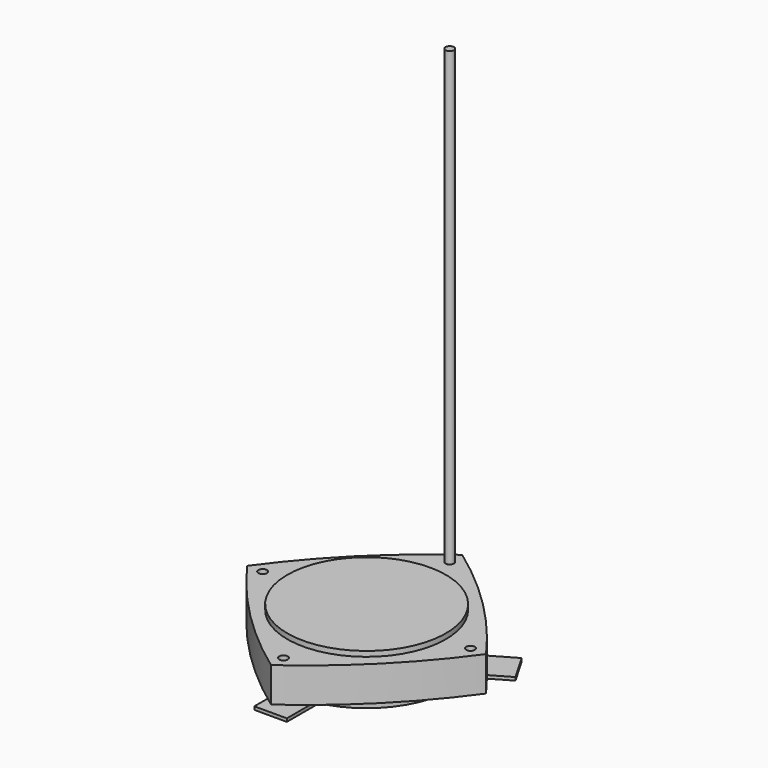
from build123d import *

# Parameters (mm, degrees)
F0_R      = 73.025
F1_DEPTH  = 4.7625
F3_DEPTH  = 32.004
F4_R      = 3.96875
F5_DEPTH  = 28.575
F6_R      = 80.01
F7_DEPTH  = 6.0325
F9_ANGLE  = -45
F10_R     = 53.975
F11_DEPTH = 2.921
F12_R     = 3.937
F13_DEPTH = 416.2425
F14_R     = 4.7625


with BuildPart() as f1:
    # F0 (on Top) → F1 (new body)
    with BuildSketch(Plane.XY):
        Circle(F0_R)
    extrude(amount=-F1_DEPTH)

    # F2 (on face) → F3 (join)
    with BuildSketch(Plane(origin=(0, 0, -4.7625), x_dir=(1, 0, 0), z_dir=(0, 0, -1))):
        with BuildLine():
            ThreePointArc((-77.7875, 77.7875), (-84.1375, 0), (-77.7875, -77.7875))
            ThreePointArc((-77.7875, -77.7875), (0, -84.1375), (77.7875, -77.7875))
            ThreePointArc((77.7875, -77.7875), (84.1375, 0), (77.7875, 77.7875))
            ThreePointArc((77.7875, 77.7875), (0, 84.1375), (-77.7875, 77.7875))
        make_face()
    extrude(amount=F3_DEPTH)

    # F4 (on face) → F5 (cut)
    with BuildSketch(Plane.XY.offset(-4.7625)):
        with Locations((-67.6656, 67.6656)):
            Circle(F4_R)
        with Locations((-67.6656, -67.6656)):
            Circle(F4_R)
        with Locations((67.6656, -67.6656)):
            Circle(F4_R)
        with Locations((67.6656, 67.6656)):
            Circle(F4_R)
    extrude(amount=-F5_DEPTH, mode=Mode.SUBTRACT)

    # F6 (on face) → F7 (join)
    with BuildSketch(Plane(origin=(0, 0, -36.7665), x_dir=(1, 0, 0), z_dir=(0, 0, -1))):
        Circle(F6_R)
    extrude(amount=F7_DEPTH)


with BuildPart() as f1_1:
    # F9: moved
    add(f1.part.rotate(Axis((0, 0, 32.1254618466), (0, 0, 1)), F9_ANGLE))

    # F10 (on face) → F11 (join)
    with BuildSketch(Plane(origin=(0, 0, -42.799), x_dir=(1, 0, 0), z_dir=(0, 0, -1))):
        with BuildLine():
            Line((-14.986, 68.3534953971), (14.986, 68.3534953971))
            ThreePointArc((14.986, 68.3534953971), (0, 69.977), (-14.986, 68.3534953971))
        make_face()
        with BuildLine():
            Line((-51.7028634513, -47.1550043997), (-66.6888634513, -21.1984909974))
            ThreePointArc((-66.6888634513, -21.1984909974), (-60.6018596806, -34.9885), (-51.7028634513, -47.1550043997))
        make_face()
        with BuildLine():
            ThreePointArc((51.7028634513, -47.1550043997), (60.6018596806, -34.9885), (66.6888634513, -21.1984909974))
            Line((66.6888634513, -21.1984909974), (51.7028634513, -47.1550043997))
        make_face()
        with BuildLine():
            ThreePointArc((66.6888634513, -21.1984909974), (69.1500799954, -10.7259948551), (69.977, 0))
            ThreePointArc((69.977, 0), (54.5227285221, 43.8640240231), (14.986, 68.3534953971))
            Line((14.986, 68.3534953971), (-14.986, 68.3534953971))
            ThreePointArc((-14.986, 68.3534953971), (-60.6018596806, 34.9885), (-66.6888634513, -21.1984909974))
            Line((-66.6888634513, -21.1984909974), (-51.7028634513, -47.1550043997))
            ThreePointArc((-51.7028634513, -47.1550043997), (0, -69.977), (51.7028634513, -47.1550043997))
            Line((51.7028634513, -47.1550043997), (66.6888634513, -21.1984909974))
        make_face()
        Circle(F10_R, mode=Mode.SUBTRACT)
        with BuildLine():
            ThreePointArc((-60.5714174881, -52.2752664601), (-69.2906925568, -40.005), (-75.5574174881, -26.3187530579))
            Line((-75.5574174881, -26.3187530579), (-103.246138, -42.3048432989))
            Line((-103.246138, -42.3048432989), (-88.260138, -68.2613567011))
            Line((-88.260138, -68.2613567011), (-60.5714174881, -52.2752664601))
        make_face()
        with BuildLine():
            Line((103.246138, -42.3048432989), (75.5574174881, -26.3187530579))
            ThreePointArc((75.5574174881, -26.3187530579), (69.2906925568, -40.005), (60.5714174881, -52.2752664601))
            Line((60.5714174881, -52.2752664601), (88.260138, -68.2613567011))
            Line((88.260138, -68.2613567011), (103.246138, -42.3048432989))
        make_face()
        with BuildLine():
            ThreePointArc((-14.986, 68.3534953971), (0, 69.977), (14.986, 68.3534953971))
            Line((14.986, 68.3534953971), (14.986, 78.594019518))
            ThreePointArc((14.986, 78.594019518), (0, 80.01), (-14.986, 78.594019518))
            Line((-14.986, 78.594019518), (-14.986, 68.3534953971))
        make_face()
        with BuildLine():
            ThreePointArc((-51.7028634513, -47.1550043997), (-60.6018596806, -34.9885), (-66.6888634513, -21.1984909974))
            Line((-66.6888634513, -21.1984909974), (-75.5574174881, -26.3187530579))
            ThreePointArc((-75.5574174881, -26.3187530579), (-69.2906925568, -40.005), (-60.5714174881, -52.2752664601))
            Line((-60.5714174881, -52.2752664601), (-51.7028634513, -47.1550043997))
        make_face()
        with BuildLine():
            Line((75.5574174881, -26.3187530579), (66.6888634513, -21.1984909974))
            ThreePointArc((66.6888634513, -21.1984909974), (60.6018596806, -34.9885), (51.7028634513, -47.1550043997))
            Line((51.7028634513, -47.1550043997), (60.5714174881, -52.2752664601))
            ThreePointArc((60.5714174881, -52.2752664601), (69.2906925568, -40.005), (75.5574174881, -26.3187530579))
        make_face()
        with BuildLine():
            ThreePointArc((-14.986, 78.594019518), (0, 80.01), (14.986, 78.594019518))
            Line((14.986, 78.594019518), (14.986, 110.5662))
            Line((14.986, 110.5662), (-14.986, 110.5662))
            Line((-14.986, 110.5662), (-14.986, 78.594019518))
        make_face()
    extrude(amount=F11_DEPTH)

    # F14
    f14_edges = [f1_1.edges().sort_by_distance(p)[0] for p in [
        (14.986, -68.353495, -44.2595),
        (-14.986, -68.353495, -44.2595),
        (-66.688863, 21.198491, -44.2595),
        (-51.702863, 47.155004, -44.2595),
        (51.702863, 47.155004, -44.2595),
        (66.688863, 21.198491, -44.2595),
    ]]
    fillet(f14_edges, radius=F14_R)


with BuildPart() as f13:
    # F12 (on face) → F13 (new body)
    with BuildSketch(Plane.XY.offset(-4.7625)):
        with Locations((0, 95.6936092261)):
            Circle(F12_R)
    extrude(amount=F13_DEPTH)


solid = Compound([f1_1.part, f13.part])
